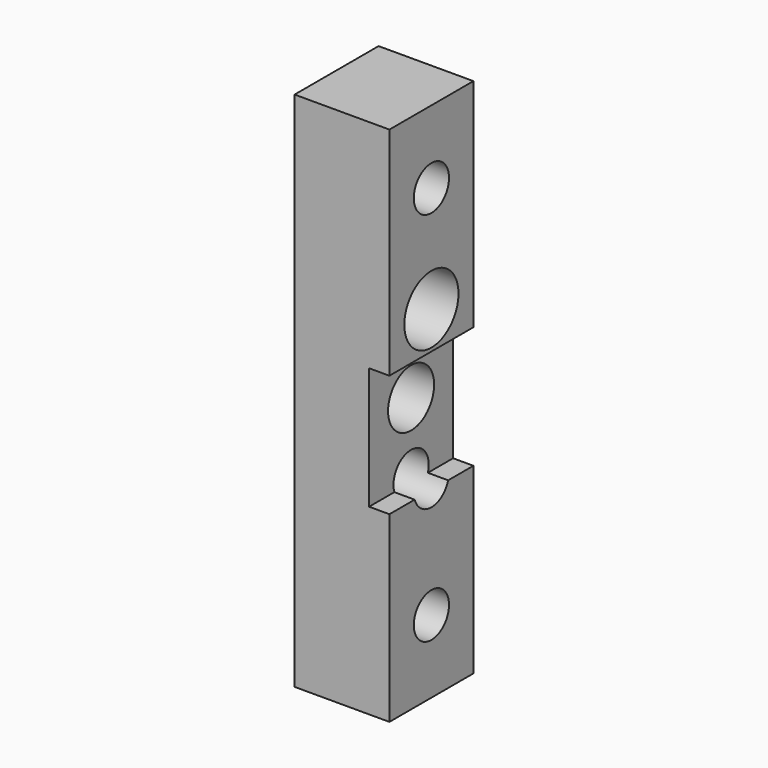
from build123d import *

# Parameters (mm, degrees)
F1_DEPTH = 15.5
F2_R     = 6.5
F2_R_2   = 10
F2_R_3   = 8.5
F3_DEPTH = 28.001


with BuildPart() as f1:
    # F0 (on Front) → F1 (new body, symmetric)
    with BuildSketch(Plane.XZ):
        Polygon((14, 13), (14, 77), (-14, 77), (-14, -77), (14, -77), (14, -23), (8, -23), (8, 13), align=None)
    extrude(amount=F1_DEPTH, both=True)

    # F2 (on face) → F3 (cut, through all)
    with BuildSketch(Plane(origin=(-14, 0, 0), x_dir=(0, -1, 0), z_dir=(-1, 0, 0))):
        with Locations((0, 55.5)):
            Circle(F2_R)
        with Locations((0, 24)):
            Circle(F2_R_2)
        with Locations((0, -1)):
            Circle(F2_R_3)
        with Locations((0, -21)):
            Circle(F2_R)
        with Locations((0, -55.5)):
            Circle(F2_R)
    extrude(amount=-F3_DEPTH, mode=Mode.SUBTRACT)


solid = f1.part
